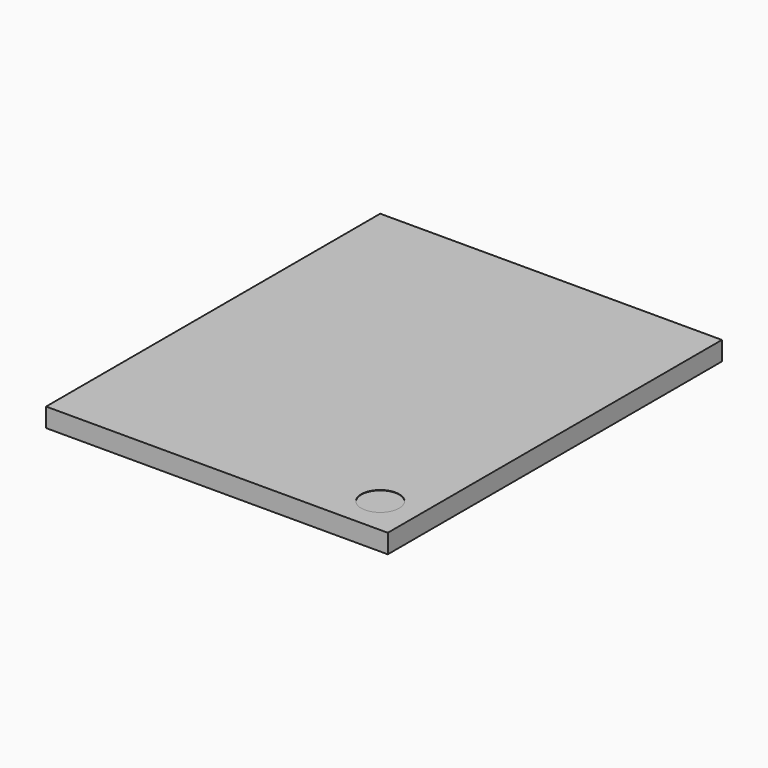
from build123d import *

# Parameters (mm, degrees)
CYLINDER028_R          = 0.5
CYLINDER028_DEPTH      = 0.01
BOX073_W               = 9
BOX073_H               = 11
BOX073_DEPTH           = 0.5
CUT021_PLACEMENT_ANGLE = 180


with BuildPart() as cylinder028:
    # Cylinder028 → Cylinder028 (new body)
    with BuildSketch(Plane(origin=(1, 10, 0.49), x_dir=(1, 0, 0), z_dir=(0, 0, 1))):
        Circle(CYLINDER028_R)
    extrude(amount=CYLINDER028_DEPTH)


with BuildPart() as obj1:
    # Box073 → Box073 (new body)
    with BuildSketch(Plane.XY):
        with Locations((4.5, 5.5)):
            Rectangle(BOX073_W, BOX073_H)
    extrude(amount=BOX073_DEPTH)

    # Cut021: cut Cylinder028
    add(cylinder028.part, mode=Mode.SUBTRACT)


with BuildPart() as obj1_1:
    # Cut021 placement: moved
    add(obj1.part.moved(Location((4.24, 20.63, 21.15))).rotate(Axis((4.24, 20.63, 21.15), (0, 0, 1)), CUT021_PLACEMENT_ANGLE))


solid = obj1_1.part
